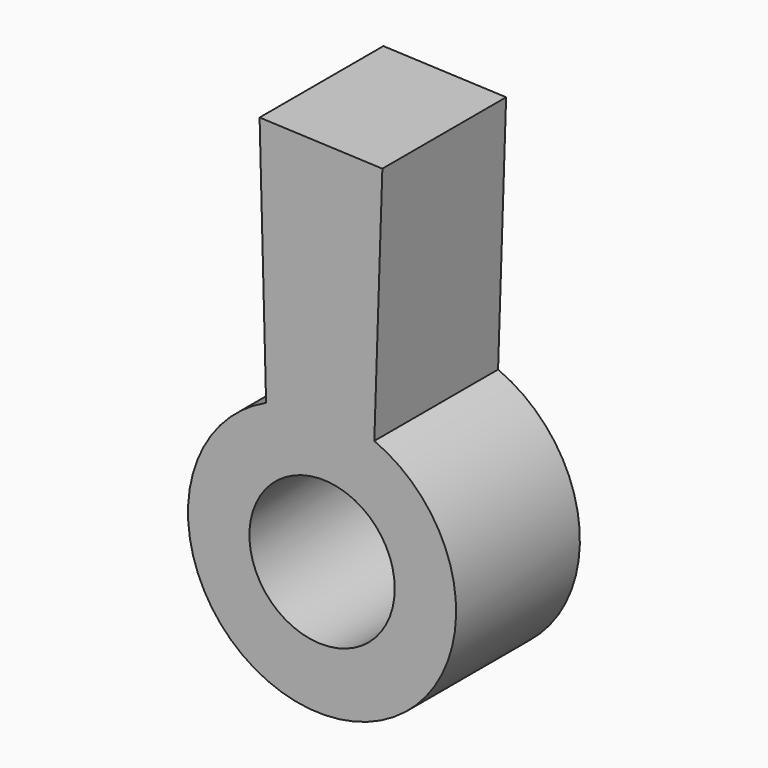
from build123d import *

# Parameters (mm, degrees)
F1_DEPTH = 25
F2_R     = 11.743302
F3_DEPTH = 25.001


with BuildPart() as f1:
    # F0 (on Front) → F1 (new body)
    with BuildSketch(Plane.XZ):
        with BuildLine():
            Line((-10.09664, 59.934124), (-9.045931, 19.685015))
            ThreePointArc((-9.045931, 19.685015), (0.329483, -21.661489), (8.443044, 19.951032))
            Line((8.443044, 19.951032), (9.744431, 59.112303))
            Line((9.744431, 59.112303), (-10.09664, 59.934124))
        make_face()
    extrude(amount=F1_DEPTH)

    # F2 (on face) → F3 (cut, through all)
    with BuildSketch(Plane.XZ.offset(25)):
        Circle(F2_R)
    extrude(amount=-F3_DEPTH, mode=Mode.SUBTRACT)


solid = f1.part
